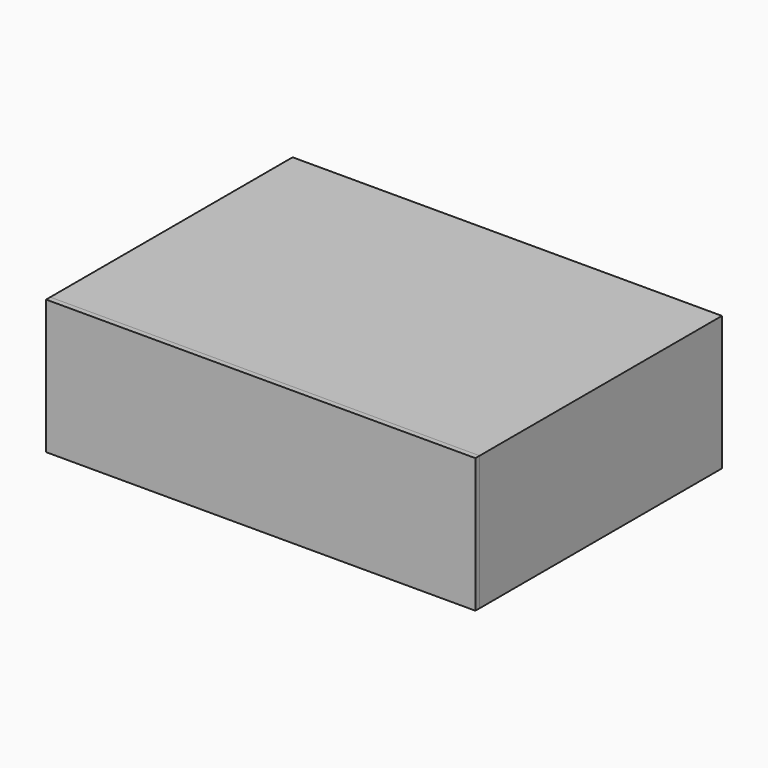
from build123d import *

# Parameters (mm, degrees)
F0_W      = 508
F0_H      = 355.6
F1_DEPTH  = 9.525
F2_W      = 355.6
F2_H      = 152.4
F3_DEPTH  = 9.525
F4_W      = 355.6
F4_H      = 152.4
F5_DEPTH  = 9.525
F6_W      = 517.525
F6_H      = 355.6
F7_DEPTH  = 9.525
F8_W      = 517.525
F8_H      = 161.925
F9_DEPTH  = 9.525
F10_W     = 517.525
F10_H     = 161.925
F11_DEPTH = 6.35
F12_W     = 76.2
F12_H     = 76.2
F12_R     = 38.1
F13_DEPTH = 25.4


with BuildPart() as f1:
    # F0 (on Top) → F1 (new body)
    with BuildSketch(Plane.XY):
        with Locations((254, 177.8)):
            Rectangle(F0_W, F0_H)
    extrude(amount=F1_DEPTH)

    # F2 (on face) → F3 (join)
    with BuildSketch(Plane.YZ.offset(508)):
        with Locations((177.8, 76.2)):
            Rectangle(F2_W, F2_H)
    extrude(amount=F3_DEPTH)

    # F4 (on Right) → F5 (join)
    with BuildSketch(Plane.YZ):
        with Locations((177.8, 76.2)):
            Rectangle(F4_W, F4_H)
    extrude(amount=F5_DEPTH)

    # F6 (on face) → F7 (join)
    with BuildSketch(Plane.XY.offset(152.4)):
        with Locations((258.7625, 177.8)):
            Rectangle(F6_W, F6_H)
    extrude(amount=F7_DEPTH)

    # F8 (on face) → F9 (join)
    with BuildSketch(Plane(origin=(0, 355.6, 0), x_dir=(-1, 0, 0), z_dir=(0, 1, 0))):
        with Locations((-258.7625, 80.9625)):
            Rectangle(F8_W, F8_H)
    extrude(amount=F9_DEPTH)

    # F12 (on face) → F13 (cut)
    with BuildSketch(Plane(origin=(0, 365.125, 0), x_dir=(-1, 0, 0), z_dir=(0, 1, 0))):
        with Locations((-428.625, 80.9625)):
            Rectangle(F12_W, F12_H)
        with Locations((-88.9, 80.9625)):
            Rectangle(F12_W, F12_H)
        with Locations((-258.7625, 80.9625)):
            Circle(F12_R)
    extrude(amount=-F13_DEPTH, mode=Mode.SUBTRACT)


with BuildPart() as f11:
    # F10 (on face) → F11 (new body)
    with BuildSketch(Plane.XZ):
        with Locations((258.7625, 80.9625)):
            Rectangle(F10_W, F10_H)
    extrude(amount=F11_DEPTH)


solid = Compound([f1.part, f11.part])
